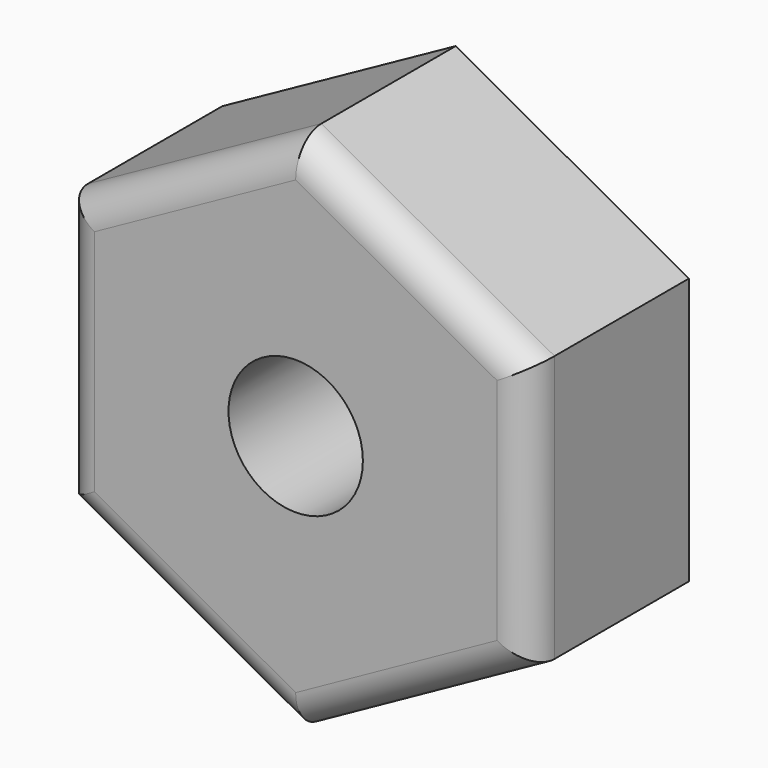
from build123d import *

# Parameters (mm, degrees)
F1_DEPTH = 9.525
F3_R     = 1.6002
F4_DEPTH = 4.7625
F5_R     = 0.762


with BuildPart() as f1:
    # F0 (on Front) → F1 (new body)
    with BuildSketch(Plane.XZ):
        Polygon((-47.0958250334, 35.7042094693), (-47.0958250334, 38.9427094693), (-43.8573250334, 38.9427094693), (-43.8573250334, 41.6986094693), (-49.5457097801, 38.8764154693), (-49.5457097801, 32.5264154693), (-43.8573250334, 29.7042214693), (-43.8573250334, 32.4657094693), (-47.0958250334, 32.4657094693), align=None)
        Polygon((-43.8573250334, 41.6986094693), (-43.8573250334, 38.9427094693), (-40.6188250334, 38.9427094693), (-40.6188250334, 35.7042094693), (-40.6188250334, 32.4657094693), (-43.8573250334, 32.4657094693), (-43.8573250334, 29.7042214693), (-38.1689402867, 32.5264154693), (-38.1689402867, 38.8764154693), align=None)
    extrude(amount=F1_DEPTH)


with BuildPart() as f4:
    # F3 (on Front) → F4 (new body)
    with BuildSketch(Plane.XZ):
        Polygon((-51.5060001731, 32.1294106543), (-57.0622501731, 29.0632774889), (-57.0622501731, 22.7132774889), (-51.5060001731, 19.6390969579), (-45.9497501731, 22.7132774889), (-45.9497501731, 29.0632774889), align=None)
        with Locations((-51.5060001731, 25.8882774889)):
            Circle(F3_R, mode=Mode.SUBTRACT)
    extrude(amount=F4_DEPTH)

    # F5
    f5_edges = [f4.edges().sort_by_distance(p)[0] for p in [
        (-54.284125, -4.7625, 30.596344),
        (-57.06225, -4.7625, 25.888277),
        (-54.284125, -4.7625, 21.176187),
        (-48.727875, -4.7625, 21.176187),
        (-45.94975, -4.7625, 25.888277),
        (-48.727875, -4.7625, 30.596344),
    ]]
    fillet(f5_edges, radius=F5_R)


solid = f4.part
